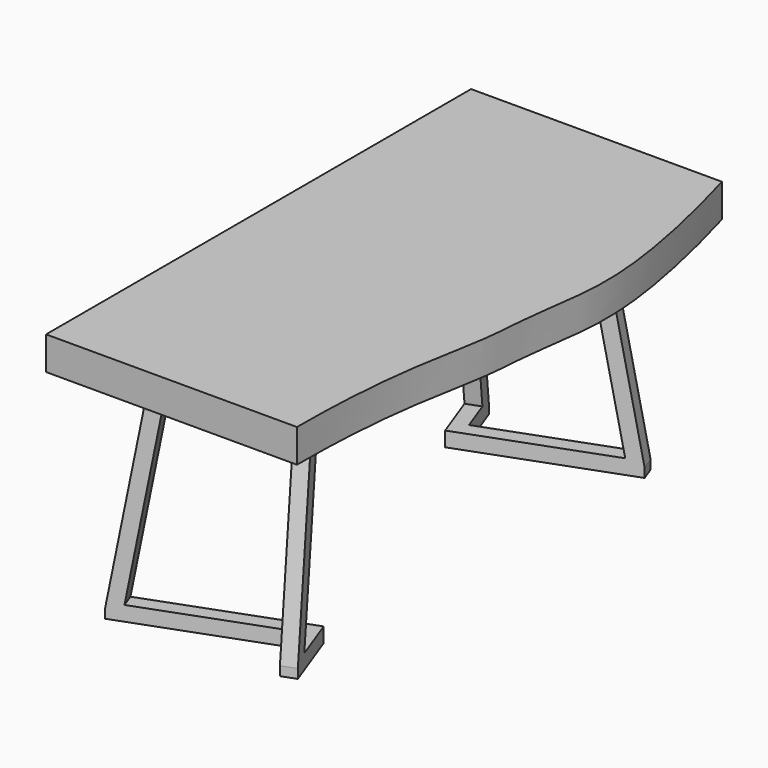
from build123d import *

# Parameters (mm, degrees)
F1_DEPTH  = 57.15
F7_DEPTH  = 12.7
F10_DEPTH = 12.7
F13_DEPTH = 12.7


with BuildPart() as f1:
    # F0 (on Top) → F1 (new body)
    with BuildSketch(Plane.XY):
        with BuildLine():
            Line((-431.8, 0), (0, 0))
            add(Edge.make_bspline(
                [(0, 914.4), (23.5507032827, 831.9263504284), (55.2787257206, 692.1124240056), (62.6142503733, 561.2826910152), (41.6707497482, 443.3728550075), (38.5300420658, 330.7716155659), (0, 195.428914411), (0, 0)],
                knots=[0, 0, 0, 0, 0.2320365414, 0.4049787378, 0.5671641169, 0.7147476654, 1, 1, 1, 1], degree=3))
            Line((0, 914.4), (-431.8, 914.4))
            Line((-431.8, 914.4), (-431.8, 0))
        make_face()
    extrude(amount=F1_DEPTH)

    # F6 (on 3pt) → F7 (join, symmetric)
    with BuildSketch(Plane(origin=(-41.1487974849, -15.1627071845, 0), x_dir=(-0.3457580408, 0.938323706, 0), z_dir=(0.938323706, 0.3457580408, 0))):
        Polygon((161.1895555469, 0), (97.3680048795, -361.95), (97.3680048795, -377.825), (207.1518256944, -377.825), (207.1518256944, -352.425), (124.8393553126, -352.425), (182.5026861788, -25.4), (503.4112472735, -25.4), (503.4112472735, 0), align=None)
        Polygon((845.632939, 0), (503.4112472735, 0), (503.4112472735, -25.4), (824.3198083682, -25.4), (881.9831392344, -352.425), (799.6706688525, -352.425), (799.6706688525, -377.825), (909.4544896675, -377.825), (909.4544896675, -361.95), align=None)
    extrude(amount=F7_DEPTH, both=True)

    # F9 (on plane+point) → F10 (join, symmetric)
    with BuildSketch(Plane(origin=(-67.2332822759, 182.4587577243, 0), x_dir=(-0.938323706, -0.3457580408, 0), z_dir=(-0.3457580408, 0.938323706, 0))):
        Polygon((268.5687023797, 0), (56.5535200824, 0), (56.5535200824, -25.4), (247.2555717478, -25.4), (304.918902614, -352.425), (56.5535200824, -352.425), (56.5535200824, -377.825), (332.3902530472, -377.825), (332.3902530472, -361.95), align=None)
    extrude(amount=F10_DEPTH, both=True)

    # F12 (on offset) → F13 (join, symmetric)
    with BuildSketch(Plane(origin=(-280.8836908399, 762.2666566446, 0), x_dir=(0.938323706, 0.3457580408, 0), z_dir=(0.3457580408, -0.938323706, 0))):
        Polygon((-31.1535200824, -352.425), (-31.1535200824, -377.825), (226.0748147964, -377.825), (226.0748147964, -361.95), (162.253264129, 0), (-31.1535200824, 0), (-31.1535200824, -25.4), (140.9401334971, -25.4), (198.6034643633, -352.425), align=None)
    extrude(amount=F13_DEPTH, both=True)


solid = f1.part
